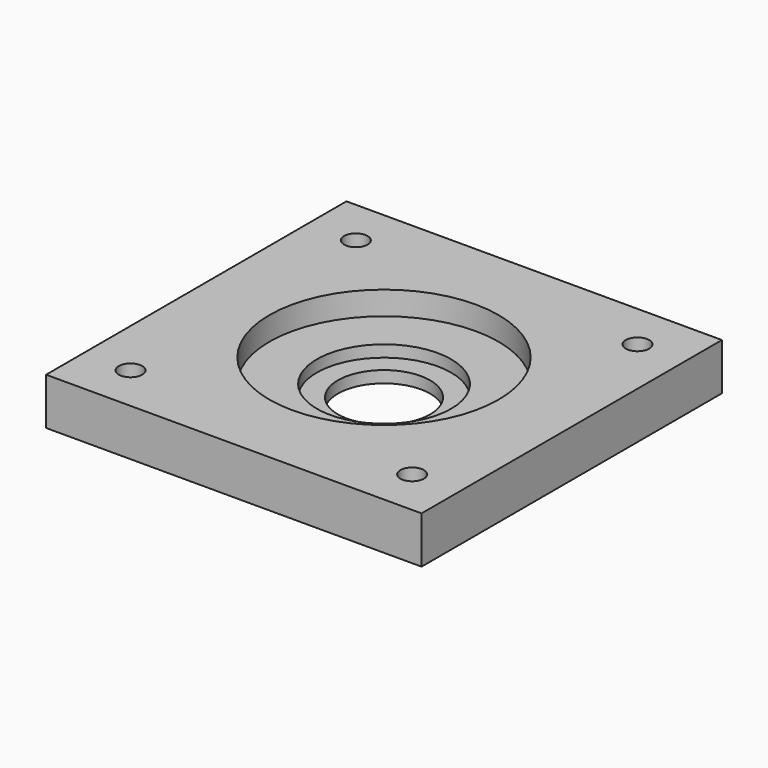
from build123d import *

# Parameters (mm, degrees)
F0_R     = 3.175
F0_R_2   = 31.0007
F1_DEPTH = 12.7
F0_R_3   = 18.161
F2_DEPTH = 6.35
F0_R_4   = 12.4841
F3_DEPTH = 3.175


with BuildPart() as f1:
    # F0 (on Top) → F1 (new body)
    with BuildSketch(Plane.XY):
        Polygon((-41.051641, 50.779698), (-41.051641, 0), (-41.051641, -50.820302), (60.548359, -50.820302), (60.548359, 50.779698), align=None)
        with Locations((-28.351641, -38.120302)):
            Circle(F0_R, mode=Mode.SUBTRACT)
        with Locations((47.848359, -38.120302)):
            Circle(F0_R, mode=Mode.SUBTRACT)
        with Locations((9.748359, -0.020302)):
            Circle(F0_R_2, mode=Mode.SUBTRACT)
        with Locations((-28.351641, 38.079698)):
            Circle(F0_R, mode=Mode.SUBTRACT)
        with Locations((47.848359, 38.079698)):
            Circle(F0_R, mode=Mode.SUBTRACT)
    extrude(amount=F1_DEPTH)

    # F0 (on Top) → F2 (join)
    with BuildSketch(Plane.XY):
        with Locations((9.748359, -0.020302)):
            Circle(F0_R_2)
        with Locations((9.748359, -0.020302)):
            Circle(F0_R_3, mode=Mode.SUBTRACT)
    extrude(amount=F2_DEPTH)

    # F0 (on Top) → F3 (join)
    with BuildSketch(Plane.XY):
        with Locations((9.748359, -0.020302)):
            Circle(F0_R_3)
        with Locations((9.748359, -0.020302)):
            Circle(F0_R_4, mode=Mode.SUBTRACT)
    extrude(amount=F3_DEPTH)


solid = f1.part
